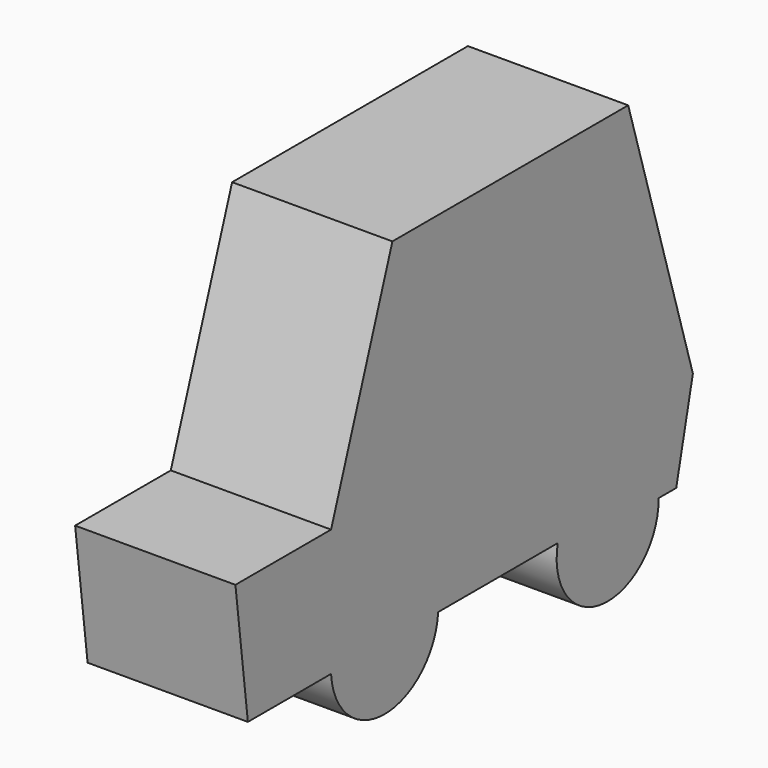
from build123d import *

# Parameters (mm, degrees)
F1_DEPTH = 38.1


with BuildPart() as f1:
    # F0 (on Right) → F1 (new body)
    with BuildSketch(Plane.YZ):
        with BuildLine():
            Line((44.800351, 52.902363), (-25.254121, 52.902363))
            Line((-25.254121, 52.902363), (-43.48034, 0))
            Line((-43.48034, 0), (-71.900882, 0))
            Line((-71.900882, 0), (-68.193853, -30.196825))
            Line((-68.193853, -30.196825), (-43.48034, -30.196825))
            ThreePointArc((-43.48034, -30.196825), (-27.571015, -45.091976), (-11.661689, -30.196825))
            Line((-11.661689, -30.196825), (23.863986, -30.196825))
            ThreePointArc((23.863986, -30.196825), (37.289157, -48.372257), (53.829122, -32.977093))
            Line((53.829122, -32.977093), (59.080742, -32.977093))
            Line((59.080742, -32.977093), (64.023443, -11.043851))
            Line((64.023443, -11.043851), (44.800351, 52.902363))
        make_face()
    extrude(amount=-F1_DEPTH)


solid = f1.part
